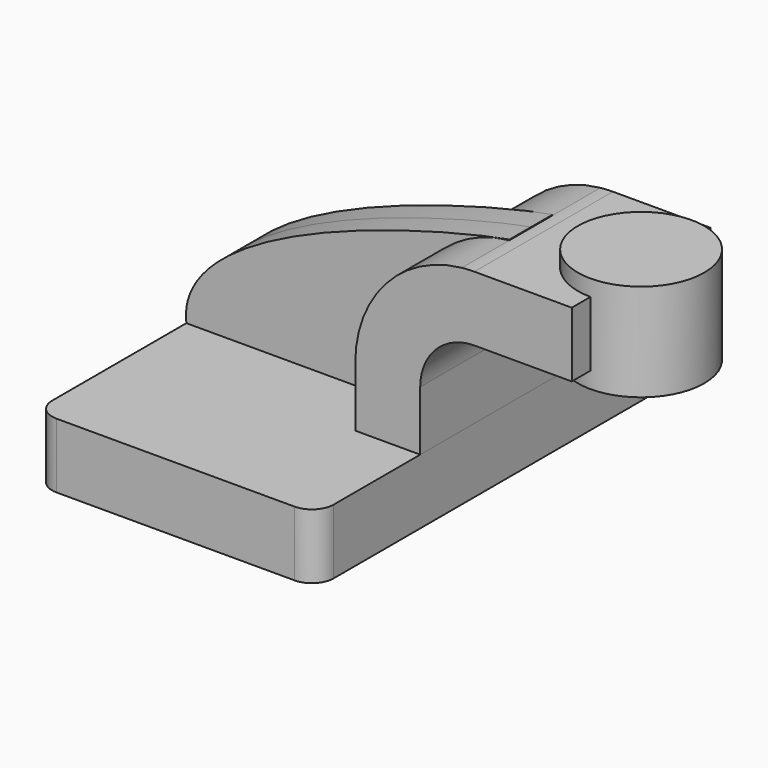
from build123d import *

# Parameters (mm, degrees)
F1_DEPTH = 63.5
F2_DEPTH = 25.4
F3_DEPTH = 7.9375
F5_R     = 6.35


with BuildPart() as f1:
    # F0 (on Front) → F1 (new body, symmetric)
    with BuildSketch(Plane.XZ):
        Polygon((22.225, 9.525), (-41.275, 9.525), (-41.275, -9.525), (41.275, -9.525), (41.275, 9.525), align=None)
    extrude(amount=F1_DEPTH, both=True)

    # F5
    f5_edges = [f1.edges().sort_by_distance(p)[0] for p in [
        (-41.275, -63.5, 0),
        (41.275, -63.5, 0),
        (41.275, 63.5, 0),
        (-41.275, 63.5, 0),
    ]]
    fillet(f5_edges, radius=F5_R)


with BuildPart() as f2:
    # F0 (on Front) → F2 (new body, symmetric)
    with BuildSketch(Plane.XZ):
        with BuildLine():
            Line((22.225, 27.0002), (22.225, 9.525))
            Line((22.225, 9.525), (41.275, 9.525))
            Line((41.275, 9.525), (41.275, 27.0002))
            ThreePointArc((41.275, 27.0002), (44.6923096771, 36.839995568), (53.4729939301, 42.4434914679))
            Line((53.4729939301, 42.4434914679), (53.4729939301, 61.7310976469))
            ThreePointArc((53.4729939301, 61.7310976469), (31.1868042992, 50.3597396788), (22.225, 27.0002))
        make_face()
        with BuildLine():
            ThreePointArc((57.15, 61.9252), (55.308937171, 61.8766406535), (53.4729939301, 61.7310976469))
            Line((53.4729939301, 61.7310976469), (53.4729939301, 42.4434914679))
            ThreePointArc((53.4729939301, 42.4434914679), (55.2988688664, 42.7669034768), (57.15, 42.8752))
            Line((57.15, 42.8752), (85.725, 42.8752))
            Line((85.725, 42.8752), (85.725, 61.9252))
            Line((85.725, 61.9252), (57.15, 61.9252))
        make_face()
    extrude(amount=F2_DEPTH, both=True)

    # F0 (on Front) → F4 (revolve)
    with BuildSketch(Plane.XZ):
        Polygon((104.2729939301, 66.675), (85.725, 66.675), (85.725, 61.9252), (85.725, 42.8752), (85.725, 38.1), (104.2729939301, 38.1), align=None)
    revolve(axis=Axis((85.725, 0, 52.4002), (0, 0, 1)))


with BuildPart() as f3:
    # F0 (on Front) → F3 (new body, symmetric)
    with BuildSketch(Plane.XZ):
        with BuildLine():
            add(Edge.make_bspline(
                [(-41.275, 9.525), (-44.9225865304, 39.6453738213), (39.3824249662, 59.6179837101), (53.4729939301, 61.9252)],
                knots=[0, 0, 0, 0, 0.8443919966, 0.8443919966, 0.8443919966, 0.8443919966], degree=3))
            Line((-41.275, 9.525), (22.225, 9.525))
            Line((22.225, 9.525), (22.225, 27.0002))
            ThreePointArc((22.225, 27.0002), (31.1868042992, 50.3597396788), (53.4729939301, 61.7310976469))
            Line((53.4729939301, 61.7310976469), (53.4729939301, 61.9252))
        make_face()
    extrude(amount=F3_DEPTH, both=True)


solid = Compound([f1.part, f2.part, f3.part])
